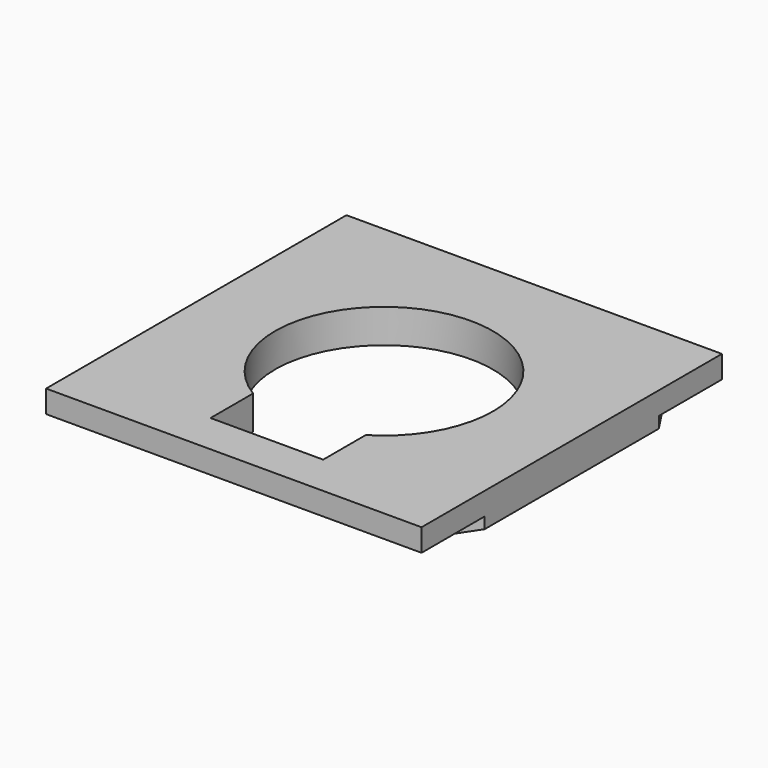
from build123d import *

# Parameters (mm, degrees)
F1_DEPTH = 12
F2_DEPTH = 6


with BuildPart() as f1:
    # F0 (on Top) → F1 (new body)
    with BuildSketch(Plane.XY):
        Polygon((-86.75, 78), (86.75, 78), (100, 58), (100, 100), (-100, 100), (-100, 58), align=None)
        with BuildLine():
            Line((100, 58), (86.75, 78))
            Line((86.75, 78), (-86.75, 78))
            Line((-86.75, 78), (-100, 58))
            Line((-100, 58), (-100, -58))
            Line((-100, -58), (-86.75, -78))
            Line((-86.75, -78), (-30, -78))
            Line((-30, -78), (-30, -49.638695))
            ThreePointArc((-30, -49.638695), (0, 58), (30, -49.638695))
            Line((30, -49.638695), (30, -78))
            Line((30, -78), (86.75, -78))
            Line((86.75, -78), (100, -58))
            Line((100, -58), (100, 58))
        make_face()
        Polygon((100, -100), (100, -58), (86.75, -78), (30, -78), (-30, -78), (-86.75, -78), (-100, -58), (-100, -100), align=None)
    extrude(amount=F1_DEPTH)

    # F0 (on Top) → F2 (join)
    with BuildSketch(Plane.XY):
        with BuildLine():
            Line((100, 58), (86.75, 78))
            Line((86.75, 78), (-86.75, 78))
            Line((-86.75, 78), (-100, 58))
            Line((-100, 58), (-100, -58))
            Line((-100, -58), (-86.75, -78))
            Line((-86.75, -78), (-30, -78))
            Line((-30, -78), (-30, -49.638695))
            ThreePointArc((-30, -49.638695), (0, 58), (30, -49.638695))
            Line((30, -49.638695), (30, -78))
            Line((30, -78), (86.75, -78))
            Line((86.75, -78), (100, -58))
            Line((100, -58), (100, 58))
        make_face()
    extrude(amount=-F2_DEPTH)


solid = f1.part
